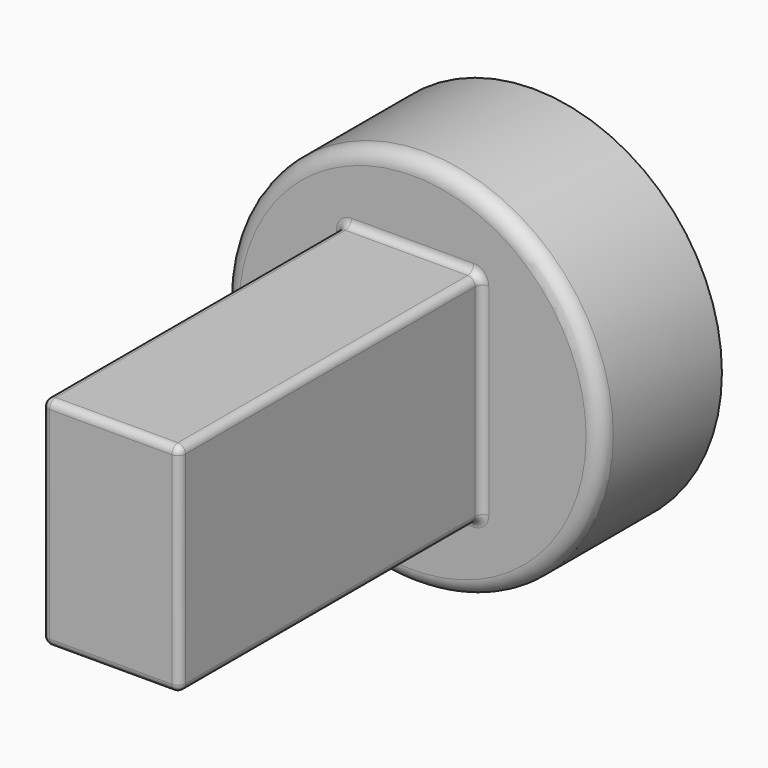
from build123d import *

# Parameters (mm, degrees)
F0_R     = 25
F1_DEPTH = 10
F2_W     = 18.193654716
F2_H     = 28.7717729807
F3_DEPTH = 50
F4_R     = 1
F5_R     = 2


with BuildPart() as f1:
    # F0 (on Front) → F1 (new body, symmetric)
    with BuildSketch(Plane.XZ):
        Circle(F0_R)
    extrude(amount=F1_DEPTH, both=True)

    # F2 (on face) → F3 (join)
    with BuildSketch(Plane.XZ.offset(10)):
        Rectangle(F2_W, F2_H)
    extrude(amount=F3_DEPTH)

    # F4
    f4_edges = [f1.edges().sort_by_distance(p)[0] for p in [
        (0, -10, 14.385886),
        (9.096827, -10, 0),
        (-9.096827, -10, 0),
        (0, -10, -14.385886),
        (-9.096827, -35, -14.385886),
        (-9.096827, -35, 14.385886),
        (9.096827, -35, 14.385886),
        (9.096827, -35, -14.385886),
        (9.096827, -60, 0),
        (-9.096827, -60, 0),
        (0, -60, 14.385886),
        (0, -60, -14.385886),
    ]]
    fillet(f4_edges, radius=F4_R)

    # F5
    f5_edges = [f1.edges().sort_by_distance(p)[0] for p in [
        (0, -10, 15.385886),
        (9.511041, -10, 14.8001),
        (-9.511041, -10, 14.8001),
        (10.096827, -10, 0),
        (-10.096827, -10, 0),
        (9.511041, -10, -14.8001),
        (-9.511041, -10, -14.8001),
        (0, -10, -15.385886),
        (-25, -10, 0),
    ]]
    fillet(f5_edges, radius=F5_R)


solid = f1.part
